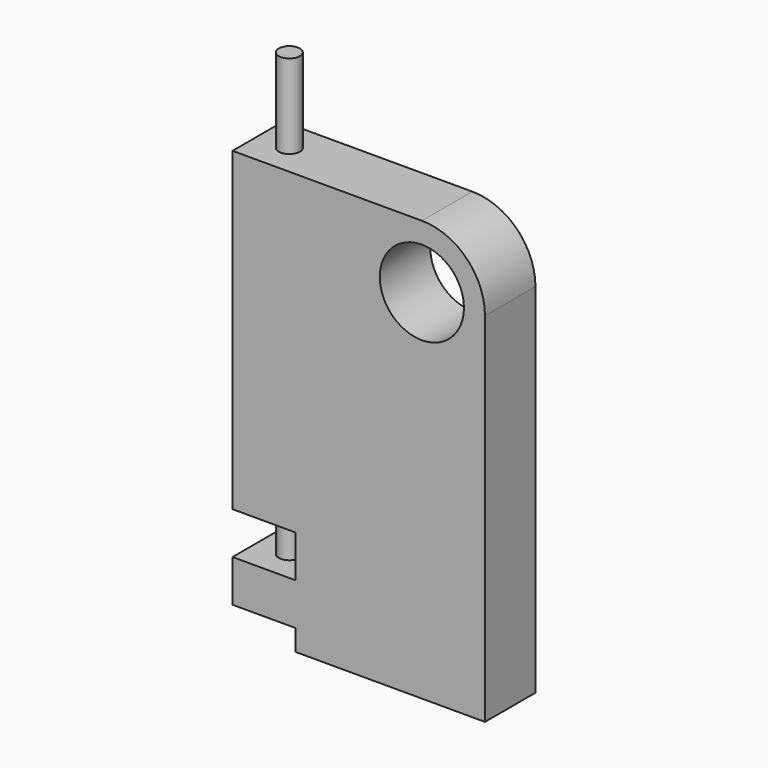
from build123d import *

# Parameters (mm, degrees)
F0_R          = 12.7
F1_DEPTH      = 9.525
F2_W          = 19.05
F2_H          = 6.35
F2_H_2        = 12.7
F3_DEPTH      = 9.526
F3_DEPTH_BACK = 9.526
F4_R          = 3.175
F5_DEPTH      = 127.001
F6_DEPTH      = 25.4
F6_DEPTH_BACK = 120.65
F7_R          = 3.175
F7_R_2        = 2.54
F8_DEPTH      = 1.27


with BuildPart() as f1:
    # F0 (on Front) → F1 (new body, symmetric)
    with BuildSketch(Plane.XZ):
        with BuildLine():
            Line((57.15, 127), (0, 127))
            Line((0, 127), (0, 0))
            Line((0, 0), (76.2, 0))
            Line((76.2, 0), (76.2, 107.95))
            ThreePointArc((76.2, 107.95), (70.6203841816, 121.4203841816), (57.15, 127))
        make_face()
        with Locations((57.15, 107.95)):
            Circle(F0_R, mode=Mode.SUBTRACT)
    extrude(amount=F1_DEPTH, both=True)

    # F2 (on Front) → F3 (cut, two sides)
    with BuildSketch(Plane.XZ) as f3_sk:
        with Locations((9.525, 3.175)):
            Rectangle(F2_W, F2_H)
        with Locations((9.525, 25.4)):
            Rectangle(F2_W, F2_H_2)
    extrude(amount=-F3_DEPTH, mode=Mode.SUBTRACT)
    extrude(f3_sk.sketch, amount=F3_DEPTH_BACK, mode=Mode.SUBTRACT)

    # F4 (on face) → F5 (cut, through all)
    with BuildSketch(Plane.XY.offset(127)):
        with Locations((9.525, 0)):
            Circle(F4_R)
    extrude(amount=-F5_DEPTH, mode=Mode.SUBTRACT)


with BuildPart() as f6:
    # F4 (on face) → F6 (new body, two sides)
    with BuildSketch(Plane.XY.offset(127)) as f6_sk:
        with Locations((9.525, 0)):
            Circle(F4_R)
    extrude(amount=F6_DEPTH)
    extrude(f6_sk.sketch, amount=-F6_DEPTH_BACK)

    # F7 (on face) → F8 (cut)
    with BuildSketch(Plane(origin=(0, 0, 31.75), x_dir=(1, 0, 0), z_dir=(0, 0, -1))):
        with Locations((9.525, 0)):
            Circle(F7_R)
        with Locations((9.525, 0)):
            Circle(F7_R_2, mode=Mode.SUBTRACT)
    extrude(amount=F8_DEPTH, mode=Mode.SUBTRACT)


solid = Compound([f1.part, f6.part])
